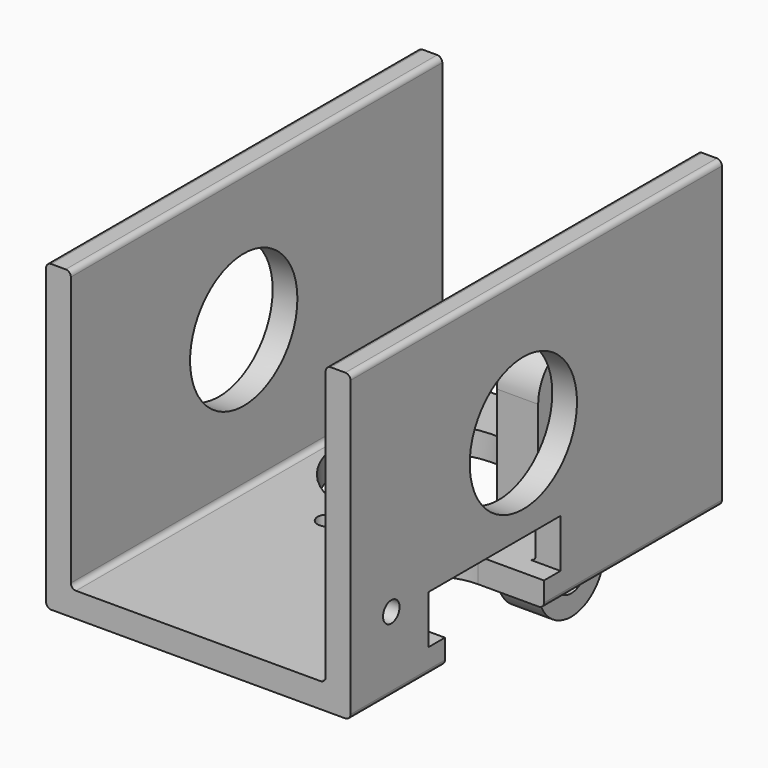
from build123d import *

# Parameters (mm, degrees)
F1_DEPTH      = 45
F2_R          = 0.5
F3_R          = 8.25
F3_R_2        = 1
F4_DEPTH      = 2.401
F5_R          = 6.5
F6_DEPTH      = 29.501
F8_DEPTH      = 2.401
F8_DEPTH_BACK = 3
F9_R          = 2
F9_R_2        = 1
F10_DEPTH     = 4
F11_DEPTH     = 9
F5_R_2        = 1
F12_DEPTH     = 5


with BuildPart() as f1:
    # F0 (on Front) → F1 (new body)
    with BuildSketch(Plane.XZ):
        Polygon((-12.35, 29.5), (-14.75, 29.5), (-14.75, 0), (0, 0), (0, 2.4), (-12.35, 2.4), align=None)
        Polygon((0, 2.4), (0, 0), (14.75, 0), (14.75, 29.5), (12.35, 29.5), (12.35, 2.4), align=None)
    extrude(amount=F1_DEPTH)

    # F2
    f2_edges = [f1.edges().sort_by_distance(p)[0] for p in [
        (-14.75, -22.5, 29.5),
        (-12.35, -22.5, 29.5),
        (12.35, -22.5, 29.5),
        (14.75, -22.5, 29.5),
        (14.75, -22.5, 0),
        (-14.75, -22.5, 0),
        (-12.35, -22.5, 2.4),
        (12.35, -22.5, 2.4),
    ]]
    fillet(f2_edges, radius=F2_R)

    # F3 (on face) → F4 (cut, through all)
    with BuildSketch(Plane.XY.offset(2.4)):
        with Locations((-3.1, -13.5547542126)):
            Circle(F3_R)
        with Locations((-4.1474557321, -24.1095084253)):
            Circle(F3_R_2)
        with Locations((7.4547542126, -14.6022099448)):
            Circle(F3_R_2)
        with Locations((-2.0525442679, -3)):
            Circle(F3_R_2)
        with BuildLine():
            Line((14.75, -21.5547542126), (13.6636427886, -21.5547542126))
            ThreePointArc((13.6636427886, -21.5547542126), (14.2361058268, -22.1128881049), (14.75, -22.7253749622))
            Line((14.75, -22.7253749622), (14.75, -21.5547542126))
        make_face()
        with BuildLine():
            ThreePointArc((14.75, -32.3841334631), (14.2361058268, -32.9966203204), (13.6636427886, -33.5547542126))
            Line((13.6636427886, -33.5547542126), (14.75, -33.5547542126))
            Line((14.75, -33.5547542126), (14.75, -32.3841334631))
        make_face()
        with BuildLine():
            Line((11.85, -21.5547542126), (8.3721401665, -21.5547542126))
            ThreePointArc((8.3721401665, -21.5547542126), (2.3721401665, -27.5547542126), (8.3721401665, -33.5547542126))
            Line((8.3721401665, -33.5547542126), (11.85, -33.5547542126))
            Line((11.85, -33.5547542126), (11.85, -21.5547542126))
        make_face()
        with BuildLine():
            Line((13.6636427886, -21.5547542126), (11.85, -21.5547542126))
            Line((11.85, -21.5547542126), (11.85, -33.5547542126))
            Line((11.85, -33.5547542126), (13.6636427886, -33.5547542126))
            ThreePointArc((13.6636427886, -33.5547542126), (14.2361058268, -32.9966203204), (14.75, -32.3841334631))
            Line((14.75, -32.3841334631), (14.75, -22.7253749622))
            ThreePointArc((14.75, -22.7253749622), (14.2361058268, -22.1128881049), (13.6636427886, -21.5547542126))
        make_face()
    extrude(amount=-F4_DEPTH, mode=Mode.SUBTRACT)

    # F5 (on face) → F6 (cut, through all)
    with BuildSketch(Plane.YZ.offset(14.75)):
        with Locations((-24.0547542126, 16)):
            Circle(F5_R)
    extrude(amount=-F6_DEPTH, mode=Mode.SUBTRACT)

    # F7 (on face) → F8 (cut, two sides)
    with BuildSketch(Plane(origin=(12.35, 0, 0), x_dir=(0, -1, 0), z_dir=(-1, 0, 0))) as f8_sk:
        Polygon((19.5547542126, 2.4), (27.5547542126, 2.4), (35.5547542126, 2.4), (35.5547542126, 7.1), (19.5547542126, 7.1), align=None)
    extrude(amount=-F8_DEPTH, mode=Mode.SUBTRACT)
    extrude(f8_sk.sketch, amount=F8_DEPTH_BACK, mode=Mode.SUBTRACT)

    # F5 (on face) → F12 (cut)
    with BuildSketch(Plane.YZ.offset(14.75)):
        with Locations((-40.0547542126, 7.25)):
            Circle(F5_R_2)
    extrude(amount=-F12_DEPTH, mode=Mode.SUBTRACT)


with BuildPart() as f10:
    # F9 (on Right) → F10 (new body)
    with BuildSketch(Plane.YZ):
        with BuildLine():
            ThreePointArc((-0.8218253805, 8.760707734), (-4.8218253805, 12.760707734), (-8.8218253805, 8.760707734))
            Line((-8.8218253805, 8.760707734), (-8.8218253805, -7))
            ThreePointArc((-8.8218253805, -7), (-4.8218253805, -11), (-0.8218253805, -7))
            Line((-0.8218253805, -7), (-0.8218253805, -5))
            ThreePointArc((-0.8218253805, -5), (-0.5289321617, -4.2928932188), (0.1781746195, -4))
            Line((0.1781746195, -4), (0, -4))
            ThreePointArc((0, -4), (4, 0), (0, 4))
            Line((0, 4), (0.1781746195, 4))
            ThreePointArc((0.1781746195, 4), (-0.5289321617, 4.2928932188), (-0.8218253805, 5))
            Line((-0.8218253805, 5), (-0.8218253805, 8.760707734))
        make_face()
        with Locations((-4.8218253805, -7)):
            Circle(F9_R, mode=Mode.SUBTRACT)
        Circle(F9_R, mode=Mode.SUBTRACT)
        with Locations((-4.8218253805, 8.760707734)):
            Circle(F9_R_2, mode=Mode.SUBTRACT)
        Circle(F9_R)
    extrude(amount=F10_DEPTH)

    # F9 (on Right) → F11 (join)
    with BuildSketch(Plane.YZ):
        Circle(F9_R)
    extrude(amount=F11_DEPTH)


solid = Compound([f1.part, f10.part])
